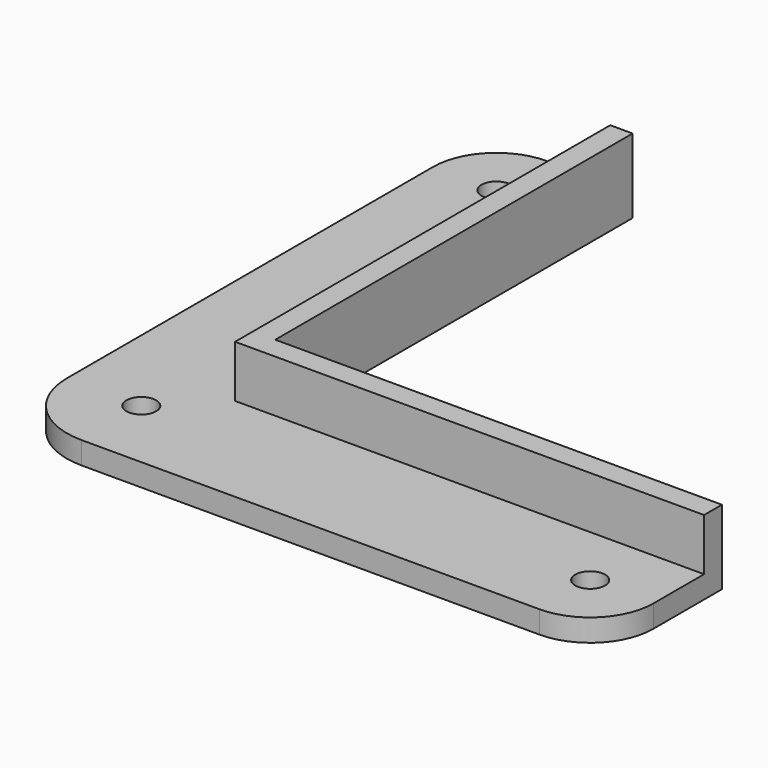
from build123d import *

# Parameters (mm, degrees)
F0_R     = 2
F0_W     = 17
F0_H     = 43
F0_W_2   = 43
F0_H_2   = 17
F1_DEPTH = 3
F0_W_3   = 3
F0_H_3   = 3
F2_DEPTH = 10


with BuildPart() as f1:
    # F0 (on Top) → F1 (new body)
    with BuildSketch(Plane.XY):
        with BuildLine():
            Line((0, 71.5), (0, 63))
            Line((0, 63), (17, 63))
            Line((17, 63), (17, 80))
            Line((17, 80), (8.5, 80))
            ThreePointArc((8.5, 80), (2.4895923599, 77.5104076401), (0, 71.5))
        make_face()
        with Locations((8.5, 71.5)):
            Circle(F0_R, mode=Mode.SUBTRACT)
        with Locations((8.5, 41.5)):
            Rectangle(F0_W, F0_H)
        with BuildLine():
            ThreePointArc((0, 10), (2.9289321881, 2.9289321881), (10, 0))
            Line((10, 0), (20, 0))
            Line((20, 0), (20, 17))
            Line((20, 17), (17, 17))
            Line((17, 17), (17, 20))
            Line((17, 20), (0, 20))
            Line((0, 20), (0, 10))
        make_face()
        with Locations((10, 10)):
            Circle(F0_R, mode=Mode.SUBTRACT)
        with Locations((41.5, 8.5)):
            Rectangle(F0_W_2, F0_H_2)
        with BuildLine():
            Line((63, 17), (63, 0))
            Line((63, 0), (71.5, 0))
            ThreePointArc((71.5, 0), (77.5104076401, 2.4895923599), (80, 8.5))
            Line((80, 8.5), (80, 17))
            Line((80, 17), (63, 17))
        make_face()
        with Locations((71.5, 8.5)):
            Circle(F0_R, mode=Mode.SUBTRACT)
    extrude(amount=F1_DEPTH)

    # F0 (on Top) → F2 (join)
    with BuildSketch(Plane.XY):
        Polygon((17, 63), (17, 20), (20, 20), (20, 80), (17, 80), align=None)
        Polygon((20, 20), (20, 17), (63, 17), (80, 17), (80, 20), align=None)
        with Locations((18.5, 18.5)):
            Rectangle(F0_W_3, F0_H_3)
    extrude(amount=F2_DEPTH)


solid = f1.part
